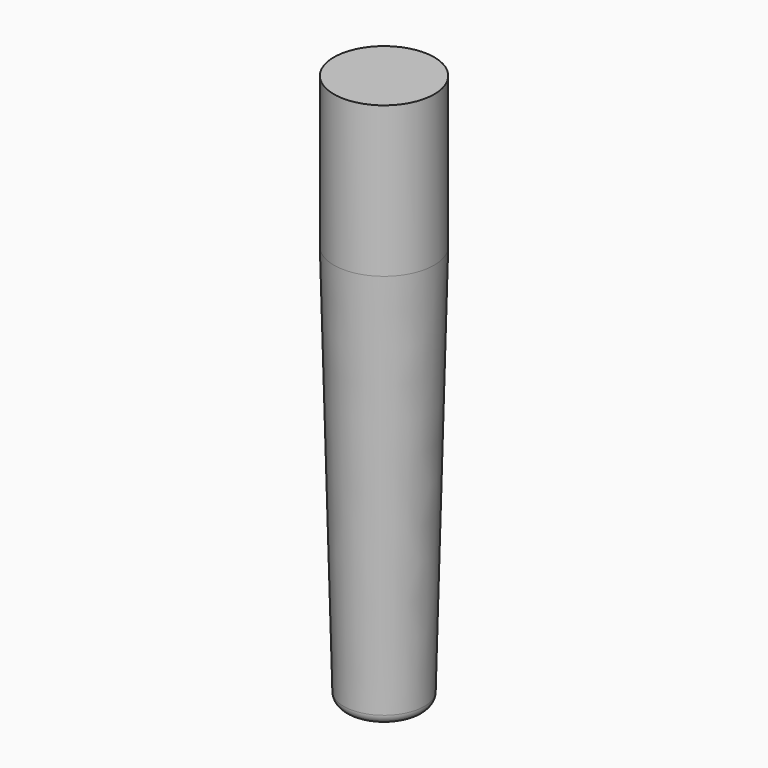
from build123d import *

# Parameters (mm, degrees)
F2_R     = 5
F0_R     = 4
F4_R     = 1
F5_R     = 5
F6_DEPTH = 15


with BuildPart() as f3:
    # F2 (on offset) → F3 section 0
    with BuildSketch(Plane.XY.offset(40)):
        Circle(F2_R)
    # F0 (on Top) → F3 section 1
    with BuildSketch(Plane.XY):
        Circle(F0_R)
    loft()

    # F4
    f4_edges = [f3.edges().sort_by_distance(p)[0] for p in [
        (-4, 0, 0),
    ]]
    fillet(f4_edges, radius=F4_R)

    # F5 (on face) → F6 (join)
    with BuildSketch(Plane.XY.offset(40)):
        Circle(F5_R)
    extrude(amount=F6_DEPTH)


solid = f3.part
